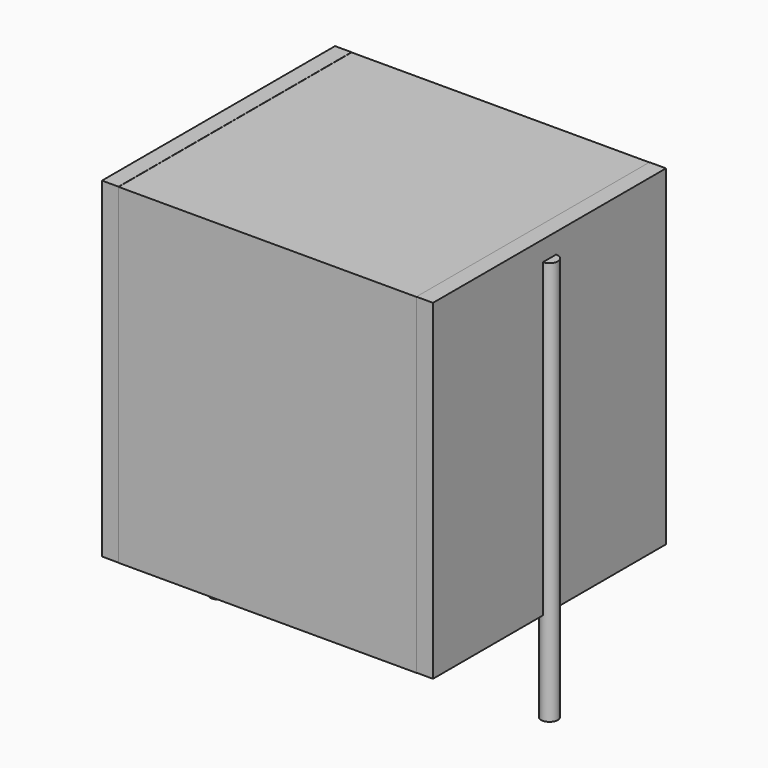
from build123d import *

# Parameters (mm, degrees)
SKETCH_W          = 9
SKETCH_H          = 8.8
PAD_DEPTH         = 10
SKETCH001_R       = 0.25
PAD001_DEPTH      = 9
PAD001_DEPTH_BACK = 3.2
SKETCH002_W       = 0.5
SKETCH002_H       = 8.8
PAD002_DEPTH      = 10


with BuildPart() as pad:
    # Sketch → Pad (new body)
    with BuildSketch(Plane.XY.offset(0.1)):
        with Locations((5, 0)):
            Rectangle(SKETCH_W, SKETCH_H)
    extrude(amount=PAD_DEPTH)


with BuildPart() as pad001:
    # Sketch001 → Pad001 (new body, two sides)
    with BuildSketch(Plane.XY.offset(0.5)) as pad001_sk:
        Circle(SKETCH001_R)
        with Locations((10, 0)):
            Circle(SKETCH001_R)
    extrude(amount=PAD001_DEPTH)
    extrude(pad001_sk.sketch, amount=-PAD001_DEPTH_BACK)


with BuildPart() as pad002:
    # Sketch002 → Pad002 (new body)
    with BuildSketch(Plane.XY.offset(0.105)):
        with Locations((0.25, 0)):
            Rectangle(SKETCH002_W, SKETCH002_H)
        with Locations((9.75, 0)):
            Rectangle(SKETCH002_W, SKETCH002_H)
    extrude(amount=PAD002_DEPTH)


solid = Compound([pad.part, pad001.part, pad002.part])
